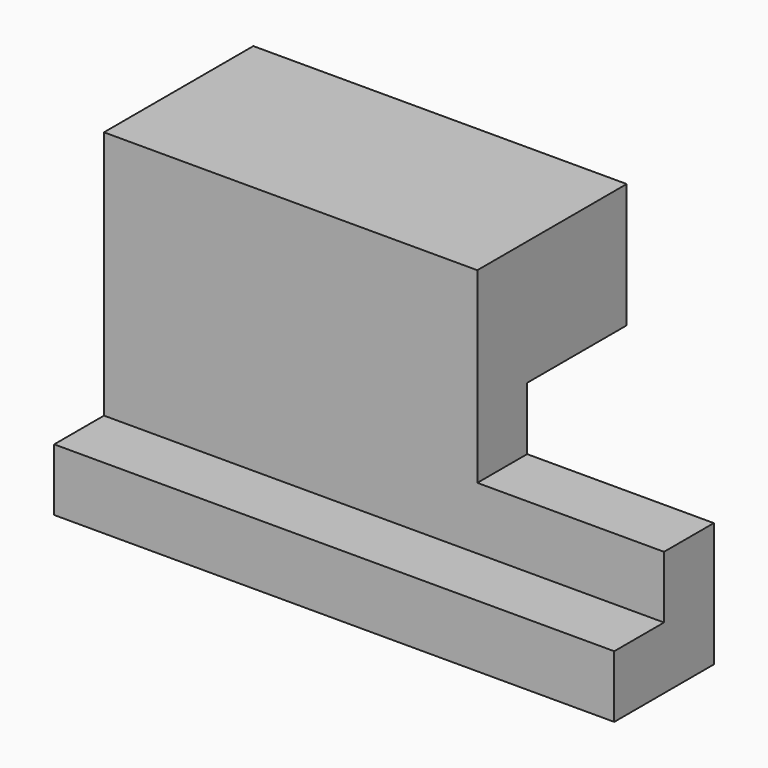
from build123d import *

# Parameters (mm, degrees)
F1_DEPTH = 76.2
F2_DEPTH = 46.736
F3_DEPTH = 114.3


with BuildPart() as f1:
    # F0 (on Right) → F1 (new body)
    with BuildSketch(Plane.YZ):
        Polygon((22.755747968, 21.8976219215), (-15.344252032, 21.8976219215), (-15.344252032, -16.3060310256), (-2.644252032, -16.3060310256), (-2.644252032, -3.5023780785), (22.755747968, -3.5023780785), align=None)
        Polygon((-15.344252032, -29.0060310256), (-28.044252032, -29.0060310256), (-28.044252032, -41.7060310256), (-2.644252032, -41.7060310256), (-2.644252032, -16.3060310256), (-15.344252032, -16.3060310256), align=None)
    extrude(amount=F1_DEPTH)

    # F2 (add): a face of the model
    f2_faces = [f1.faces().sort_by_distance(p)[0] for p in [
        (0, -2.6494304529, -4.812812026),
    ]]
    extrude(f2_faces, amount=-F2_DEPTH)

    # F0 (on Right) → F3 (join)
    with BuildSketch(Plane.YZ):
        Polygon((-15.344252032, -29.0060310256), (-28.044252032, -29.0060310256), (-28.044252032, -41.7060310256), (-2.644252032, -41.7060310256), (-2.644252032, -16.3060310256), (-15.344252032, -16.3060310256), align=None)
    extrude(amount=F3_DEPTH)


solid = f1.part
